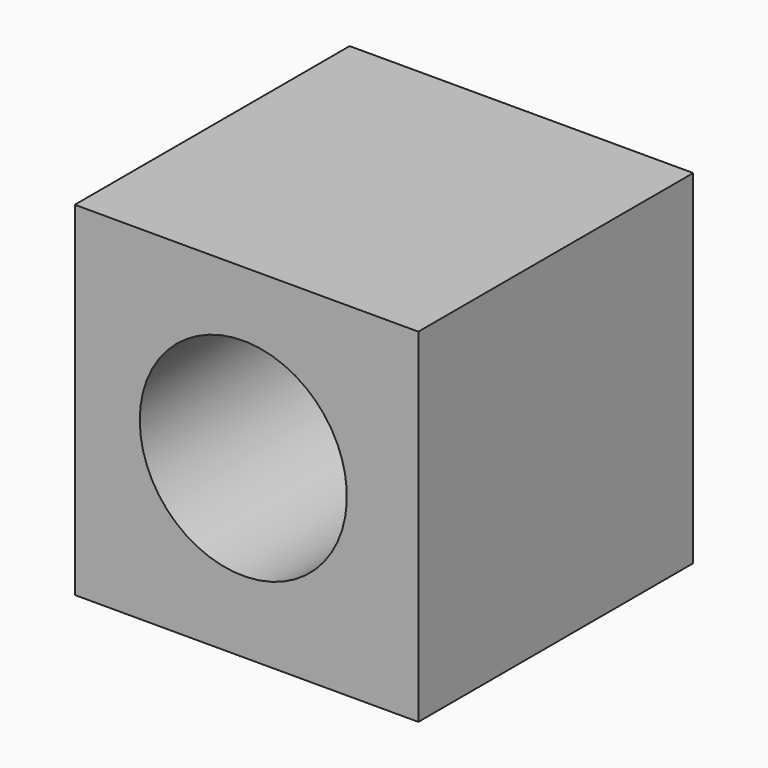
from build123d import *

# Parameters (mm, degrees)
F0_W     = 80
F0_H     = 80
F1_DEPTH = 80
F2_R     = 24.112344
F3_DEPTH = 80.001


with BuildPart() as f1:
    # F0 (on Top) → F1 (new body)
    with BuildSketch(Plane.XY):
        with Locations((-37.264932, 12.039601)):
            Rectangle(F0_W, F0_H)
    extrude(amount=F1_DEPTH)

    # F2 (on face) → F3 (cut, through all)
    with BuildSketch(Plane(origin=(0, 52.039601, 0), x_dir=(-1, 0, 0), z_dir=(0, 1, 0))):
        with Locations((38.022466, 40.784996)):
            Circle(F2_R)
    extrude(amount=-F3_DEPTH, mode=Mode.SUBTRACT)


solid = f1.part
